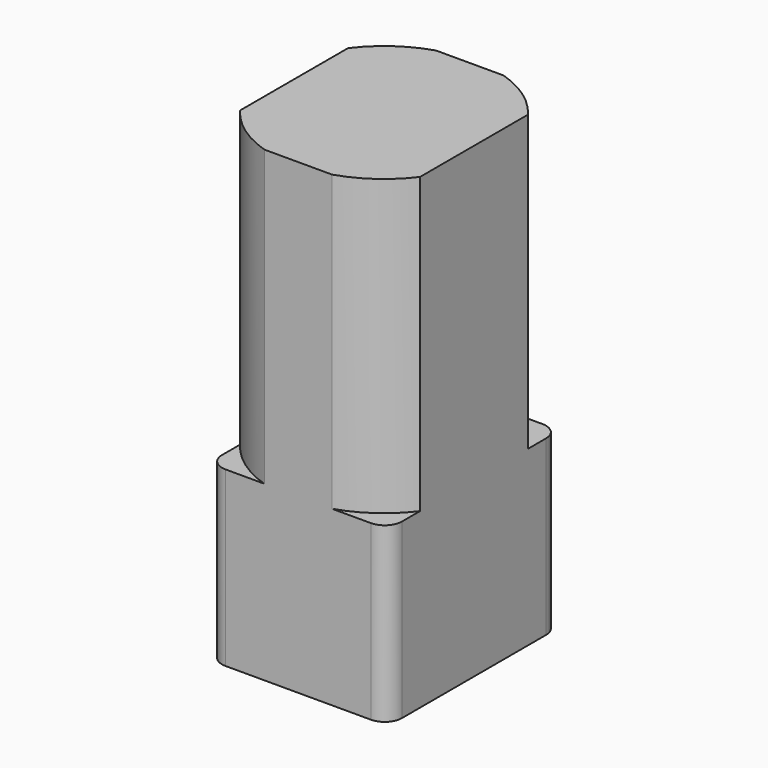
from build123d import *

# Parameters (mm, degrees)
BOX501_W                  = 10.4
BOX501_H                  = 12.4
BOX501_DEPTH              = 27
FILLET395_R               = 1
CYLINDER1189_R            = 8
CYLINDER1189_DEPTH        = 27
CYLINDER1191_R            = 6.5
CYLINDER1191_DEPTH        = 17
CYLINDER1190_R            = 8
CYLINDER1190_DEPTH        = 17
CYLINDER1192_R            = 8
CYLINDER1192_DEPTH        = 27
CUT014241_PLACEMENT_ANGLE = 180


with BuildPart() as fillet395:
    # Box501 → Box501 (new body)
    with BuildSketch(Plane(origin=(-5.2, -6.2, 0), x_dir=(1, 0, 0), z_dir=(0, 0, 1))):
        with Locations((5.2, 6.2)):
            Rectangle(BOX501_W, BOX501_H)
    extrude(amount=BOX501_DEPTH)

    # Fillet395
    fillet395_edges = [fillet395.edges().sort_by_distance(p)[0] for p in [
        (-5.2, -6.2, 13.5),
        (-5.2, 6.2, 13.5),
        (5.2, -6.2, 13.5),
        (5.2, 6.2, 13.5),
    ]]
    fillet(fillet395_edges, radius=FILLET395_R)


with BuildPart() as cut014240:
    # Cylinder1189 → Cylinder1189 (new body)
    with BuildSketch(Plane.XY):
        Circle(CYLINDER1189_R)
    extrude(amount=CYLINDER1189_DEPTH)

    # Cut014240: cut Fillet395
    add(fillet395.part, mode=Mode.SUBTRACT)


with BuildPart() as cylinder1409:
    # Cylinder1191 → Cylinder1191 (new body)
    with BuildSketch(Plane.XY):
        Circle(CYLINDER1191_R)
    extrude(amount=CYLINDER1191_DEPTH)


with BuildPart() as fusion248002050121:
    # Cylinder1190 → Cylinder1190 (new body)
    with BuildSketch(Plane.XY):
        Circle(CYLINDER1190_R)
    extrude(amount=CYLINDER1190_DEPTH)

    # Cut014239: cut Cylinder1409
    add(cylinder1409.part, mode=Mode.SUBTRACT)

    # Fusion248002050121: union Cut014240
    add(cut014240.part)


with BuildPart() as bucket_opening_motor:
    # Cylinder1192 → Cylinder1192 (new body)
    with BuildSketch(Plane.XY):
        Circle(CYLINDER1192_R)
    extrude(amount=CYLINDER1192_DEPTH)

    # Cut014241: cut Fusion248002050121
    add(fusion248002050121.part, mode=Mode.SUBTRACT)


with BuildPart() as bucket_opening_motor_1:
    # Cut014241 placement: moved
    add(bucket_opening_motor.part.moved(Location((441.5, 85, 137))).rotate(Axis((441.5, 85, 137), (1, 0, 0)), CUT014241_PLACEMENT_ANGLE))


solid = bucket_opening_motor_1.part
